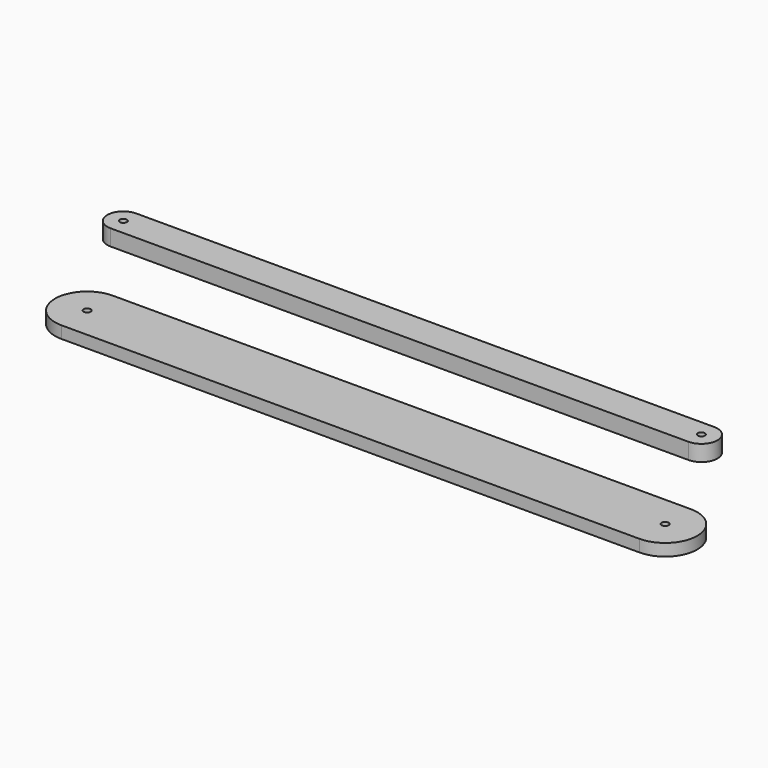
from build123d import *

# Parameters (mm, degrees)
F0_R     = 5.5626
F1_DEPTH = 19.05
F2_R     = 5.5626
F3_DEPTH = 25.4


with BuildPart() as f1:
    # F0 (on Top) → F1 (new body)
    with BuildSketch(Plane.XY):
        with BuildLine():
            Line((-58.194679, 79.345585), (-972.594679, 79.345585))
            ThreePointArc((-972.594679, 79.345585), (-1023.394679, 28.545585), (-972.594679, -22.254415))
            Line((-972.594679, -22.254415), (-58.194679, -22.254415))
            ThreePointArc((-58.194679, -22.254415), (-7.394679, 28.545585), (-58.194679, 79.345585))
        make_face()
        with Locations((-972.594679, 28.545585)):
            Circle(F0_R, mode=Mode.SUBTRACT)
        with Locations((-58.194679, 28.545585)):
            Circle(F0_R, mode=Mode.SUBTRACT)
    extrude(amount=F1_DEPTH)


with BuildPart() as f3:
    # F2 (on Top) → F3 (new body)
    with BuildSketch(Plane.XY):
        with BuildLine():
            Line((-165.406778, 259.570677), (-1079.806778, 259.570677))
            ThreePointArc((-1079.806778, 259.570677), (-1105.206778, 234.170677), (-1079.806778, 208.770677))
            Line((-1079.806778, 208.770677), (-165.406778, 208.770677))
            ThreePointArc((-165.406778, 208.770677), (-140.006778, 234.170677), (-165.406778, 259.570677))
        make_face()
        with Locations((-165.406778, 234.170677)):
            Circle(F2_R, mode=Mode.SUBTRACT)
        with Locations((-1079.806778, 234.170677)):
            Circle(F2_R, mode=Mode.SUBTRACT)
    extrude(amount=F3_DEPTH)


solid = Compound([f1.part, f3.part])
